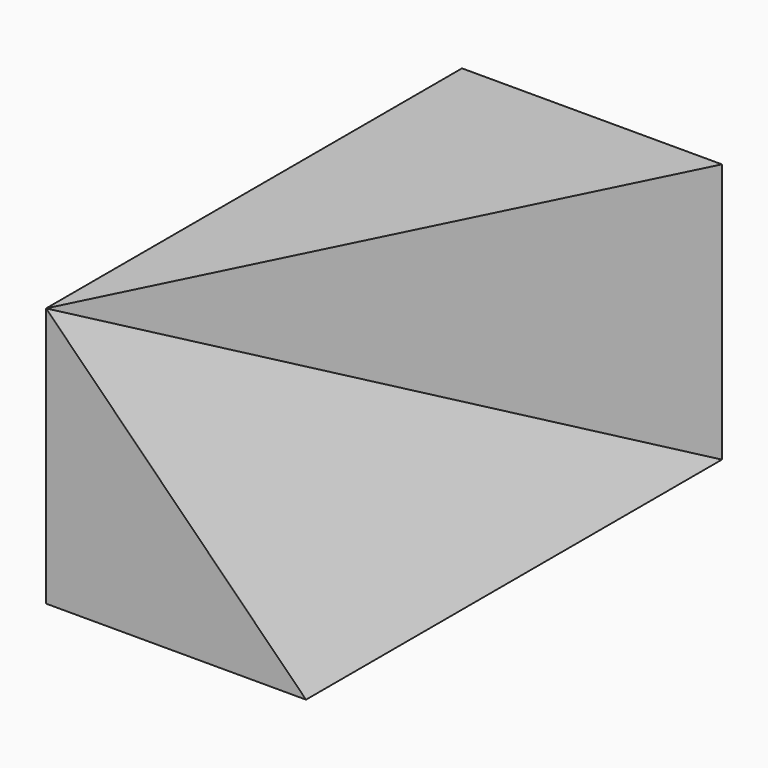
from build123d import *

# Parameters (mm, degrees)
F1_DEPTH = 100
F3_DEPTH = 50


with BuildPart() as f1:
    # F0 (on Front) → F1 (new body)
    with BuildSketch(Plane.XZ):
        Polygon((0, 50), (0, 0), (50, 0), align=None)
    extrude(amount=F1_DEPTH)

    # F2 (on face) → F3 (join, through all)
    with BuildSketch(Plane(origin=(0, 0, 0), x_dir=(1, 0, 0), z_dir=(0, 0, -1))):
        Polygon((0, 100), (0, 0), (50, 0), align=None)
    extrude(amount=-F3_DEPTH)


solid = f1.part
